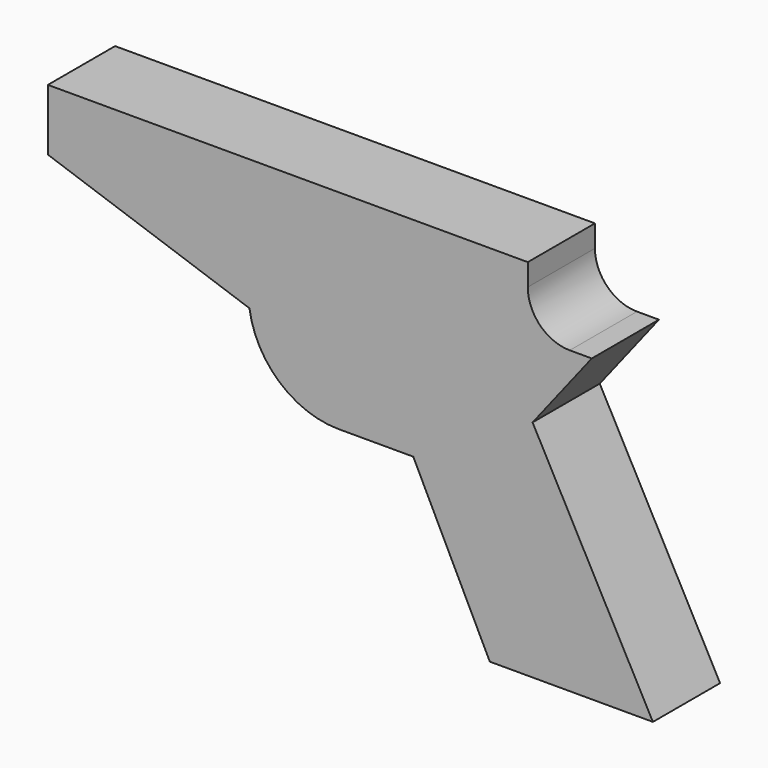
from build123d import *

# Parameters (mm, degrees)
F1_DEPTH = 20
F2_R     = 10


with BuildPart() as f1:
    # F0 (on Front) → F1 (new body)
    with BuildSketch(Plane.XZ):
        with BuildLine():
            Line((47.276331, 35.251416), (47.276331, 50.491416))
            Line((47.276331, 50.491416), (-67.023669, 50.491416))
            Line((-67.023669, 50.491416), (-67.023669, 35.852298))
            Line((-67.023669, 35.852298), (-19.011813, 19.254055))
            ThreePointArc((-19.011813, 19.254055), (-11.837012, 6.076339), (2.219168, 0.827168))
            Line((2.219168, 0.827168), (19.999168, 0.827168))
            Line((19.999168, 0.827168), (38.225762, -36.226879))
            Line((38.225762, -36.226879), (77.082462, -36.226879))
            Line((77.082462, -36.226879), (48.419438, 17.255383))
            Line((48.419438, 17.255383), (62.516331, 35.251416))
            Line((62.516331, 35.251416), (47.276331, 35.251416))
        make_face()
    extrude(amount=F1_DEPTH)

    # F2
    f2_edges = [f1.edges().sort_by_distance(p)[0] for p in [
        (47.276331, -10, 35.251416),
    ]]
    fillet(f2_edges, radius=F2_R)


solid = f1.part
